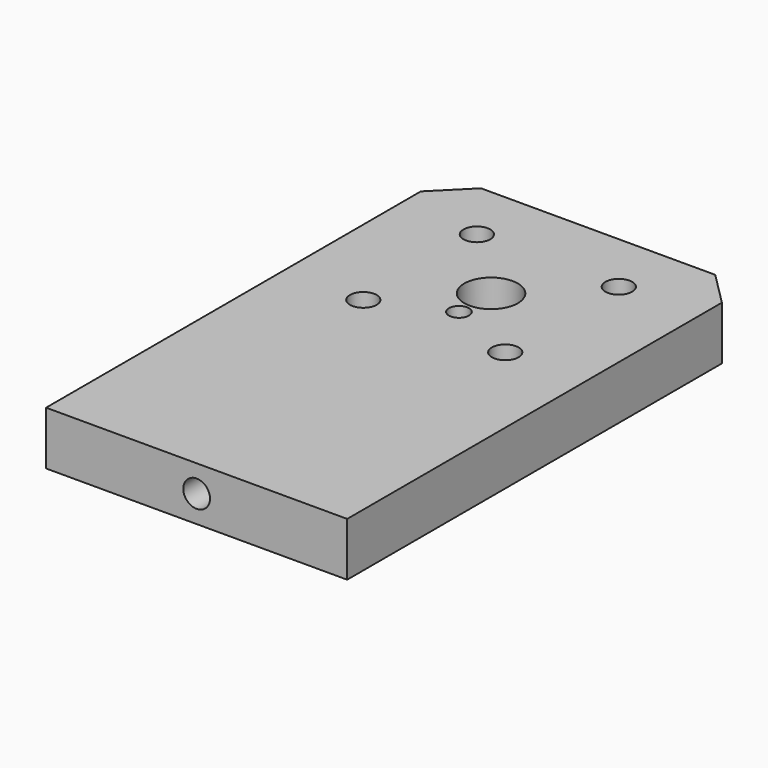
from build123d import *

# Parameters (mm, degrees)
F0_R     = 2
F0_R_2   = 4
F1_DEPTH = 8
F2_R     = 2
F3_DEPTH = 53
F4_R     = 1.5
F5_DEPTH = 3


with BuildPart() as f1:
    # F0 (on Top) → F1 (new body)
    with BuildSketch(Plane.XY):
        Polygon((0, 70), (0, 0), (45, 0), (45, 70), (40, 75), (5, 75), align=None)
        with Locations((11.893398, 44.393398)):
            Circle(F0_R, mode=Mode.SUBTRACT)
        with Locations((11.893398, 65.606602)):
            Circle(F0_R, mode=Mode.SUBTRACT)
        with Locations((33.106602, 44.393398)):
            Circle(F0_R, mode=Mode.SUBTRACT)
        with Locations((22.5, 55)):
            Circle(F0_R_2, mode=Mode.SUBTRACT)
        with Locations((33.106602, 65.606602)):
            Circle(F0_R, mode=Mode.SUBTRACT)
    extrude(amount=F1_DEPTH)

    # F2 (on face) → F3 (cut)
    with BuildSketch(Plane.XZ):
        with Locations((22.5, 4)):
            Circle(F2_R)
    extrude(amount=-F3_DEPTH, mode=Mode.SUBTRACT)

    # F4 (on face) → F5 (cut)
    with BuildSketch(Plane.XY.offset(8)):
        with Locations((22.5, 49)):
            Circle(F4_R)
    extrude(amount=-F5_DEPTH, mode=Mode.SUBTRACT)


solid = f1.part
